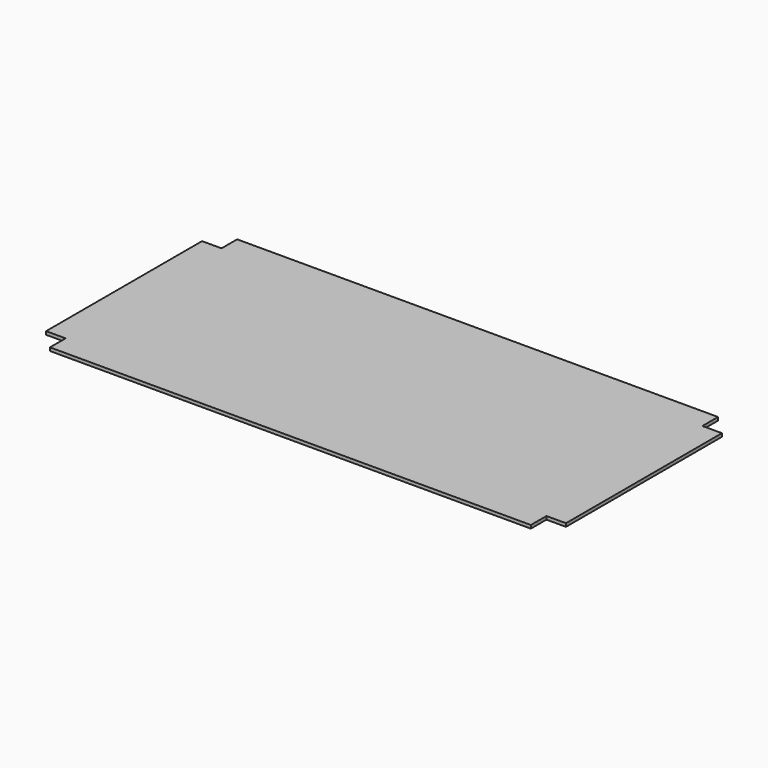
from build123d import *

# Parameters (mm, degrees)
F1_DEPTH = 3.175


with BuildPart() as f1:
    # F0 (on Top) → F1 (new body, symmetric)
    with BuildSketch(Plane.XY):
        Polygon((-469.9, -228.6), (469.9, -228.6), (469.9, -190.5), (508, -190.5), (508, 190.5), (469.9, 190.5), (469.9, 228.6), (-469.9, 228.6), (-469.9, 190.5), (-508, 190.5), (-508, -190.5), (-469.9, -190.5), align=None)
    extrude(amount=F1_DEPTH, both=True)


solid = f1.part
